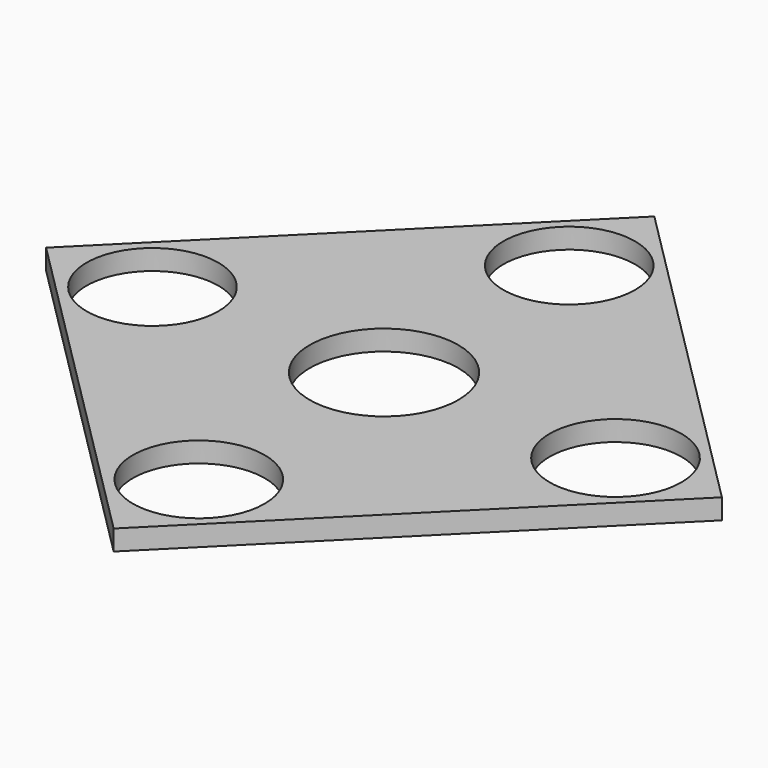
from build123d import *

# Parameters (mm, degrees)
F0_R     = 9.75
F0_R_2   = 11
F1_DEPTH = 3


with BuildPart() as f1:
    # F0 (on Top) → F1 (new body)
    with BuildSketch(Plane.XY):
        Polygon((50, 0), (0, 50), (-50, 0), (0, -50), align=None)
        with Locations((0, -34.256589)):
            Circle(F0_R, mode=Mode.SUBTRACT)
        with Locations((-34.257, 0)):
            Circle(F0_R, mode=Mode.SUBTRACT)
        Circle(F0_R_2, mode=Mode.SUBTRACT)
        with Locations((34.257, 0)):
            Circle(F0_R, mode=Mode.SUBTRACT)
        with Locations((0, 34.256589)):
            Circle(F0_R, mode=Mode.SUBTRACT)
    extrude(amount=F1_DEPTH)


solid = f1.part
